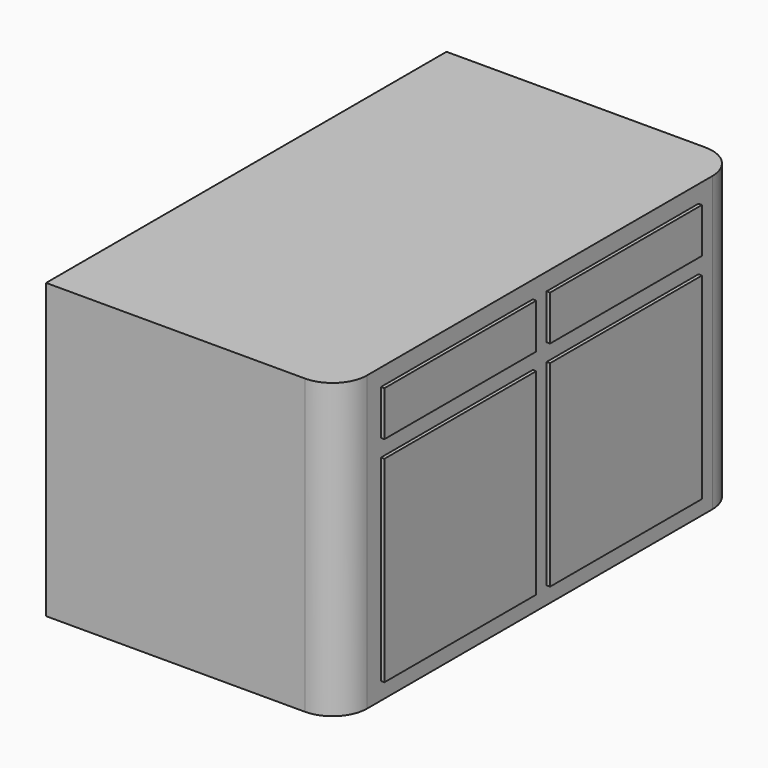
from build123d import *

# Parameters (mm, degrees)
F1_DEPTH = 850
F2_W     = 550
F2_H     = 130
F2_H_2   = 570
F3_DEPTH = 10


with BuildPart() as f1:
    # F0 (on Top) → F1 (new body)
    with BuildSketch(Plane.XY):
        with BuildLine():
            Line((0, 1450), (0, 0))
            Line((0, 0), (750, 0))
            ThreePointArc((750, 0), (820.710678, 29.289322), (850, 100))
            Line((850, 100), (850, 1350))
            ThreePointArc((850, 1350), (820.710678, 1420.710678), (750, 1450))
            Line((750, 1450), (0, 1450))
        make_face()
    extrude(amount=F1_DEPTH)

    # F2 (on face) → F3 (join)
    with BuildSketch(Plane.YZ.offset(850)):
        with Locations((425, 735)):
            Rectangle(F2_W, F2_H)
        with Locations((1025, 735)):
            Rectangle(F2_W, F2_H)
        with Locations((425, 335)):
            Rectangle(F2_W, F2_H_2)
        with Locations((1025, 335)):
            Rectangle(F2_W, F2_H_2)
    extrude(amount=F3_DEPTH)


solid = f1.part
